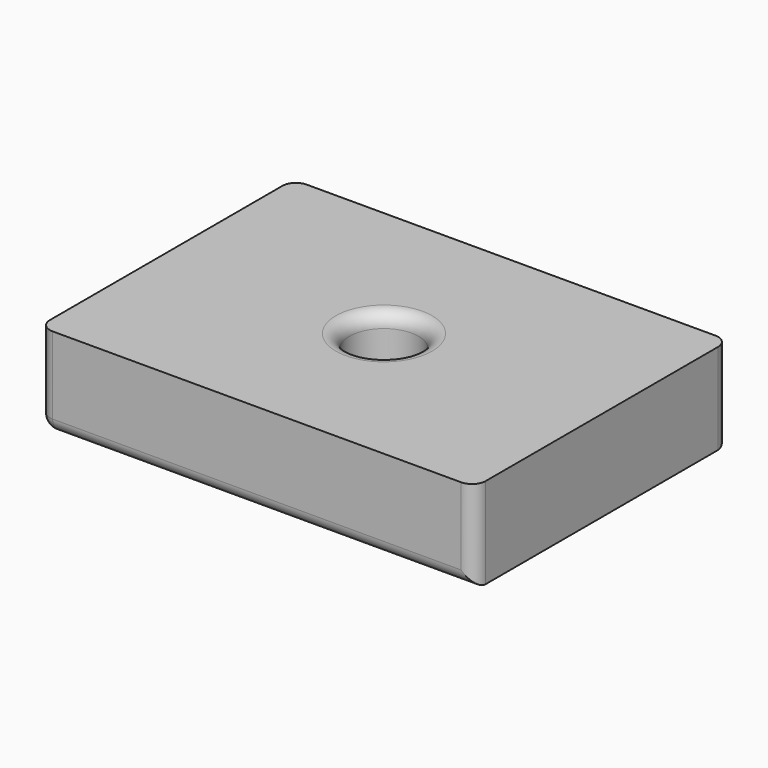
from build123d import *

# Parameters (mm, degrees)
BOX006_W        = 48
BOX006_H        = 35
BOX006_DEPTH    = 10
SKETCH007_R     = 3.8
POCKET001_DEPTH = 10
FILLET007_R     = 1.5


with BuildPart() as part:
    # Box006 → Box006 (new body)
    with BuildSketch(Plane(origin=(-24, -22, -15), x_dir=(1, 0, 0), z_dir=(0, 0, 1))):
        with Locations((24, 17.5)):
            Rectangle(BOX006_W, BOX006_H)
    extrude(amount=BOX006_DEPTH)

    # Sketch007 → Pocket001 (cut)
    with BuildSketch(Plane(origin=(-24, -22, -15), x_dir=(1, 0, 0), z_dir=(0, 0, -1))):
        with Locations((24, -17.5)):
            Circle(SKETCH007_R)
    extrude(amount=-POCKET001_DEPTH, mode=Mode.SUBTRACT)

    # Fillet007
    fillet007_edges = [part.edges().sort_by_distance(p)[0] for p in [
        (-24, -22, -10),
        (-24, 13, -10),
        (24, -22, -10),
        (0, 13, -15),
        (-24, -4.5, -15),
        (-3.8, -4.5, -5),
        (0, -22, -15),
        (24, 13, -10),
    ]]
    fillet(fillet007_edges, radius=FILLET007_R)


solid = part.part
